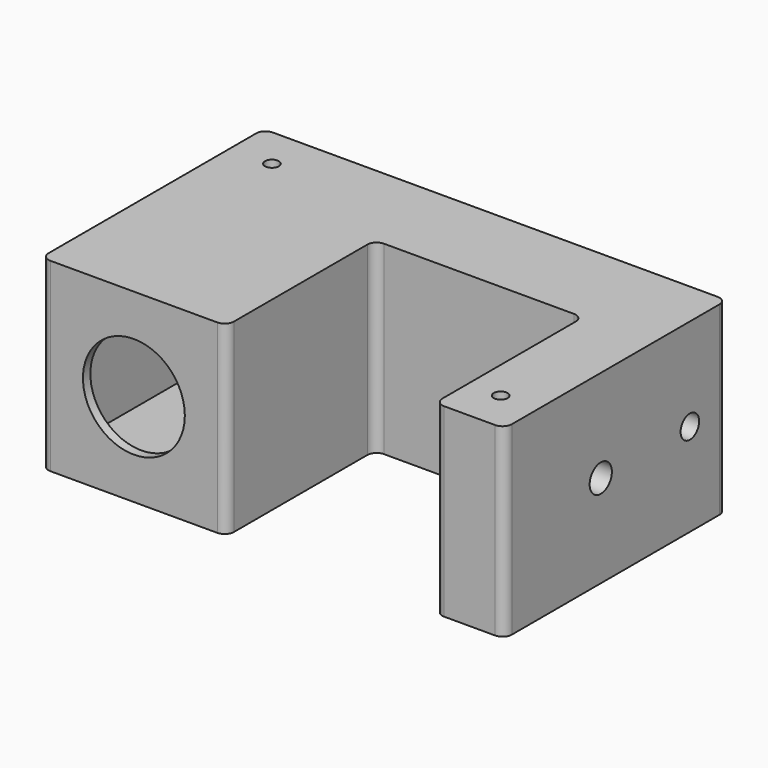
from build123d import *

# Parameters (mm, degrees)
SKETCH005_R       = 2.5
CYLINDER_R        = 11
CYLINDER_DEPTH    = 2
BOX001_W          = 26
BOX001_H          = 35
BOX001_DEPTH      = 26
CYLINDER001_R     = 1.5
CYLINDER001_DEPTH = 40
CYLINDER002_R     = 1.5
CYLINDER002_DEPTH = 40
BOX_W             = 4
BOX_H             = 12
BOX_DEPTH         = 12
CYLINDER003_R     = 3
CYLINDER003_DEPTH = 15
PAD_DEPTH         = 40
FILLET_R          = 2


with BuildPart() as sensorcable:
    # Sweep: sweep along a path in Sketch006
    with BuildLine(Plane.XY) as sweep_path:
        Line((20.046883, -0.001316), (20.046883, 39.998684))
        ThreePointArc((20.046883, 39.998684), (22.975815, 47.069752), (30.046883, 49.998684))
        Line((30.046883, 49.998684), (100.046883, 49.998684))
    # Sketch005 → Sweep (sweep)
    with BuildSketch(Plane.XZ):
        with Locations((20, 0.016)):
            Circle(SKETCH005_R)
    sweep(path=sweep_path.line)


with BuildPart() as sensorcable_1:
    # Sweep placement: moved
    add(sensorcable.part.moved(Location((0, 0, 20))))


with BuildPart() as sensorcylinder:
    # Cylinder → Cylinder (new body)
    with BuildSketch(Plane(origin=(20, 2, 20), x_dir=(1, 0, 0), z_dir=(0, -1, 0))):
        Circle(CYLINDER_R)
    extrude(amount=CYLINDER_DEPTH)


with BuildPart() as sensor:
    # Box001 → Box001 (new body)
    with BuildSketch(Plane(origin=(7, 2, 7), x_dir=(1, 0, 0), z_dir=(0, 0, 1))):
        with Locations((13, 17.5)):
            Rectangle(BOX001_W, BOX001_H)
    extrude(amount=BOX001_DEPTH)

    # Fusion001: union sensorCable, sensorCylinder
    add(sensorcable_1.part)
    add(sensorcylinder.part)


with BuildPart() as screw001:
    # Cylinder001 → Cylinder001 (new body)
    with BuildSketch(Plane(origin=(9, 51, 0), x_dir=(1, 0, 0), z_dir=(0, 0, 1))):
        Circle(CYLINDER001_R)
    extrude(amount=CYLINDER001_DEPTH)


with BuildPart() as screws:
    # Cylinder002 → Cylinder002 (new body)
    with BuildSketch(Plane(origin=(92, 9, 0), x_dir=(1, 0, 0), z_dir=(0, 0, 1))):
        Circle(CYLINDER002_R)
    extrude(amount=CYLINDER002_DEPTH)

    # Fusion002: union screw001
    add(screw001.part)


with BuildPart() as nutclamp:
    # Box → Box (new body)
    with BuildSketch(Plane(origin=(90, 20, 14), x_dir=(1, 0, 0), z_dir=(0, 0, 1))):
        with Locations((2, 6)):
            Rectangle(BOX_W, BOX_H)
    extrude(amount=BOX_DEPTH)


with BuildPart() as drills:
    # Cylinder003 → Cylinder003 (new body)
    with BuildSketch(Plane(origin=(85, 26, 20), x_dir=(0, 0, -1), z_dir=(1, 0, 0))):
        Circle(CYLINDER003_R)
    extrude(amount=CYLINDER003_DEPTH)

    # Fusion: union nutClamp
    add(nutclamp.part)

    # Fusion003: union sensor, screws
    add(sensor.part)
    add(screws.part)


with BuildPart() as ultrasonicsensorcase:
    # Sketch → Pad (new body)
    with BuildSketch(Plane.XY):
        Polygon((0, 0), (0, 60), (100, 60), (100, 0), (85, 0), (85, 40), (40, 40), (40, 0), align=None)
    extrude(amount=PAD_DEPTH)

    # Cut: cut drills
    add(drills.part, mode=Mode.SUBTRACT)

    # Fillet
    fillet_edges = [ultrasonicsensorcase.edges().sort_by_distance(p)[0] for p in [
        (0, 0, 20),
        (0, 60, 20),
        (40, 0, 20),
        (100, 60, 20),
        (40, 40, 20),
        (100, 0, 20),
        (85, 40, 20),
        (85, 0, 20),
    ]]
    fillet(fillet_edges, radius=FILLET_R)


solid = ultrasonicsensorcase.part
